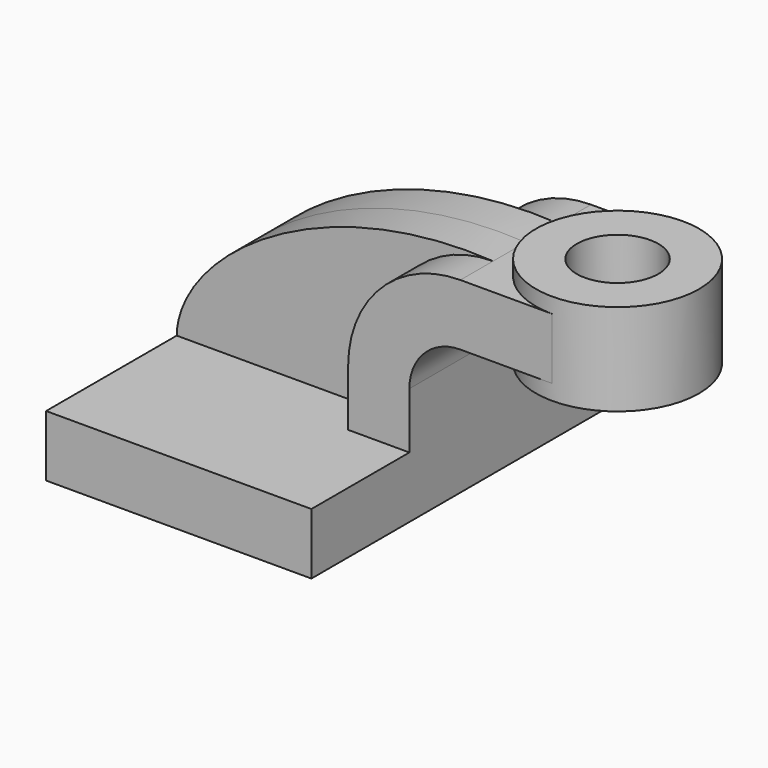
from build123d import *

# Parameters (mm, degrees)
F1_DEPTH = 63.5
F0_W     = 25.4
F0_H     = 19.05
F2_DEPTH = 25.4
F3_DEPTH = 12.7
F6_D     = 25.4


with BuildPart() as f1:
    # F0 (on Front) → F1 (new body, symmetric)
    with BuildSketch(Plane.XZ):
        Polygon((41.275, -9.525), (41.275, 9.525), (22.225, 9.525), (-41.275, 9.525), (-41.275, -9.525), align=None)
    extrude(amount=F1_DEPTH, both=True)

    # F0 (on Front) → F2 (join, symmetric)
    with BuildSketch(Plane.XZ):
        with BuildLine():
            Line((22.225, 9.525), (41.275, 9.525))
            Line((41.275, 9.525), (41.275, 27.0002))
            ThreePointArc((41.275, 27.0002), (45.9246798487, 38.2255201513), (57.15, 42.8752))
            Line((57.15, 42.8752), (60.325, 42.8752))
            Line((60.325, 42.8752), (60.325, 61.9252))
            Line((60.325, 61.9252), (57.15, 61.9252))
            ThreePointArc((57.15, 61.9252), (32.4542956671, 51.6959043329), (22.225, 27.0002))
            Line((22.225, 27.0002), (22.225, 9.525))
        make_face()
        with Locations((73.025, 52.4002)):
            Rectangle(F0_W, F0_H)
    extrude(amount=F2_DEPTH, both=True)

    # F0 (on Front) → F3 (join, symmetric)
    with BuildSketch(Plane.XZ):
        with BuildLine():
            Line((-41.275, 9.525), (22.225, 9.525))
            Line((22.225, 9.525), (22.225, 27.0002))
            ThreePointArc((22.225, 27.0002), (32.4542956671, 51.6959043329), (57.15, 61.9252))
            add(Edge.make_bspline(
                [(57.15, 61.9252), (2.3303949274, 65.2119144797), (-40.8146418631, 33.2797057927), (-41.275, 9.525)],
                knots=[0, 0, 0, 0, 111.5045361635, 111.5045361635, 111.5045361635, 111.5045361635], degree=3))
        make_face()
    extrude(amount=F3_DEPTH, both=True)

    # F0 (on Front) → F4 (revolve)
    with BuildSketch(Plane.XZ):
        Polygon((85.725, 61.9252), (85.725, 42.8752), (85.725, 38.1), (111.125, 38.1), (111.125, 66.675), (85.725, 66.675), align=None)
    revolve(axis=Axis((85.725, 0, 52.3875), (0, 0, -1)))

    # F6 (through all)
    with Locations(Plane.XY.offset(66.675)):
        with Locations((85.725, 0)):
            Hole(F6_D / 2)


solid = f1.part
